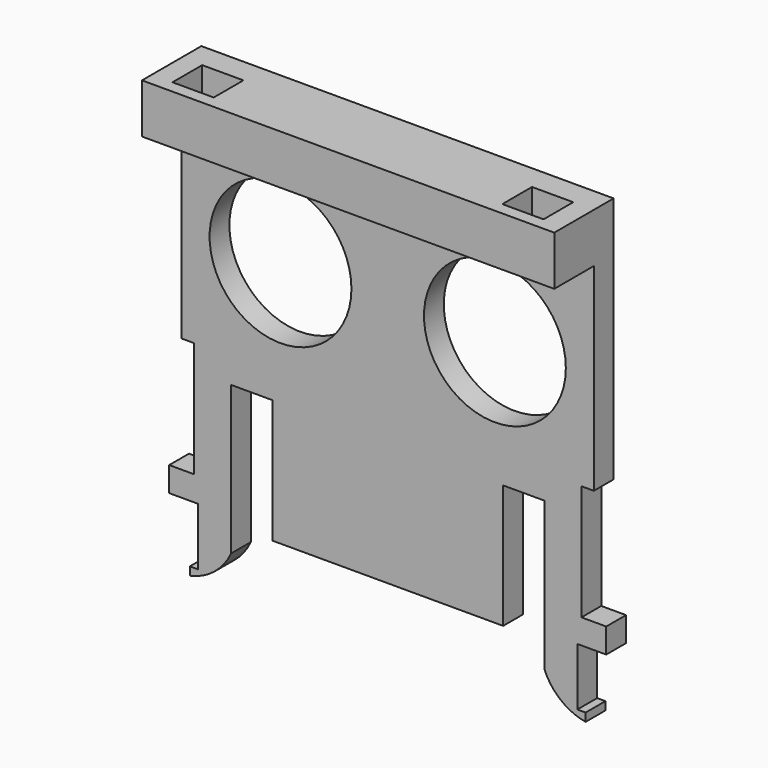
from build123d import *

# Parameters (mm, degrees)
PAD_DEPTH       = 3
SKETCH001_R     = 8.6
POCKET_DEPTH    = 3.001
SKETCH002_W     = 50
SKETCH002_H     = 6
PAD001_DEPTH    = 6
SKETCH003_W     = 5
SKETCH003_H     = 4.5
POCKET001_DEPTH = 6


with BuildPart() as part:
    # Sketch → Pad (new body)
    with BuildSketch(Plane.XZ):
        with BuildLine():
            Line((-24, -25), (-24, -24))
            Line((-24, -24), (-23, -24))
            Line((-23, -24), (-23, -17))
            Line((-23, -17), (-26.5, -17))
            Line((-26.5, -17), (-26.5, -14))
            Line((-26.5, -14), (-23.5, -14))
            Line((-23.5, -14), (-23.5, 0))
            Line((-23.5, 0), (-25, 0))
            Line((-25, 0), (-25, 30))
            Line((-25, 30), (25, 30))
            Line((25, 30), (25, 0))
            Line((25, 0), (23.5, 0))
            Line((23.5, 0), (23.5, -14))
            Line((23.5, -14), (26.5, -14))
            Line((26.5, -14), (26.5, -17))
            Line((26.5, -17), (23, -17))
            Line((23, -17), (23, -24))
            Line((23, -24), (24, -24))
            Line((24, -24), (24, -25))
            ThreePointArc((19, -21), (20.983324, -23.645845), (24, -25))
            Line((19, -3), (19, -21))
            Line((14, -3), (19, -3))
            Line((14, -18), (14, -3))
            Line((-14, -18), (14, -18))
            Line((-14, -3), (-14, -18))
            Line((-19, -3), (-14, -3))
            Line((-19, -21), (-19, -3))
            ThreePointArc((-24, -25), (-21.025722, -23.592847), (-19, -21))
        make_face()
    extrude(amount=PAD_DEPTH)

    # Sketch001 (on Face30 of Pad) → Pocket (cut, through all)
    with BuildSketch(Plane.XZ.offset(3)):
        with Locations((-13, 12)):
            Circle(SKETCH001_R)
        with Locations((13, 12)):
            Circle(SKETCH001_R)
    extrude(amount=-POCKET_DEPTH, mode=Mode.SUBTRACT)

    # Sketch002 (on Face5 of Pocket) → Pad001 (join)
    with BuildSketch(Plane.XZ.offset(3)):
        with Locations((0, 27)):
            Rectangle(SKETCH002_W, SKETCH002_H)
    extrude(amount=PAD001_DEPTH)

    # Sketch003 (on Face35 of Pad001) → Pocket001 (cut)
    with BuildSketch(Plane(origin=(0, 0, 30), x_dir=(-1, 0, 0), z_dir=(0, 0, 1))):
        with Locations((-20, 5.25)):
            Rectangle(SKETCH003_W, SKETCH003_H)
        with Locations((20, 5.25)):
            Rectangle(SKETCH003_W, SKETCH003_H)
    extrude(amount=-POCKET001_DEPTH, mode=Mode.SUBTRACT)


solid = part.part
